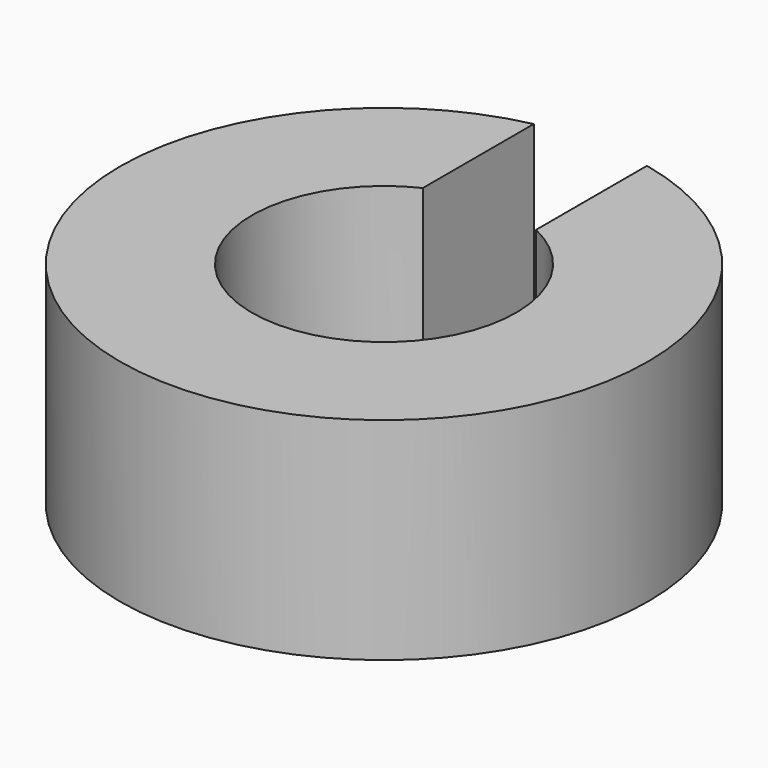
from build123d import *

# Parameters (mm, degrees)
SKETCH_R     = 3.5
SKETCH_R_2   = 1.75
PAD_DEPTH    = 2.8
SKETCH001_W  = 1.5
SKETCH001_H  = 4.389726
POCKET_DEPTH = 5


with BuildPart() as part:
    # Sketch → Pad (new body)
    with BuildSketch(Plane.XY):
        Circle(SKETCH_R)
        Circle(SKETCH_R_2, mode=Mode.SUBTRACT)
    extrude(amount=PAD_DEPTH)

    # Sketch001 (on Face4 of Pad) → Pocket (cut)
    with BuildSketch(Plane.XY.offset(2.8)):
        with Locations((0, 2.194863)):
            Rectangle(SKETCH001_W, SKETCH001_H)
    extrude(amount=-POCKET_DEPTH, mode=Mode.SUBTRACT)


solid = part.part
